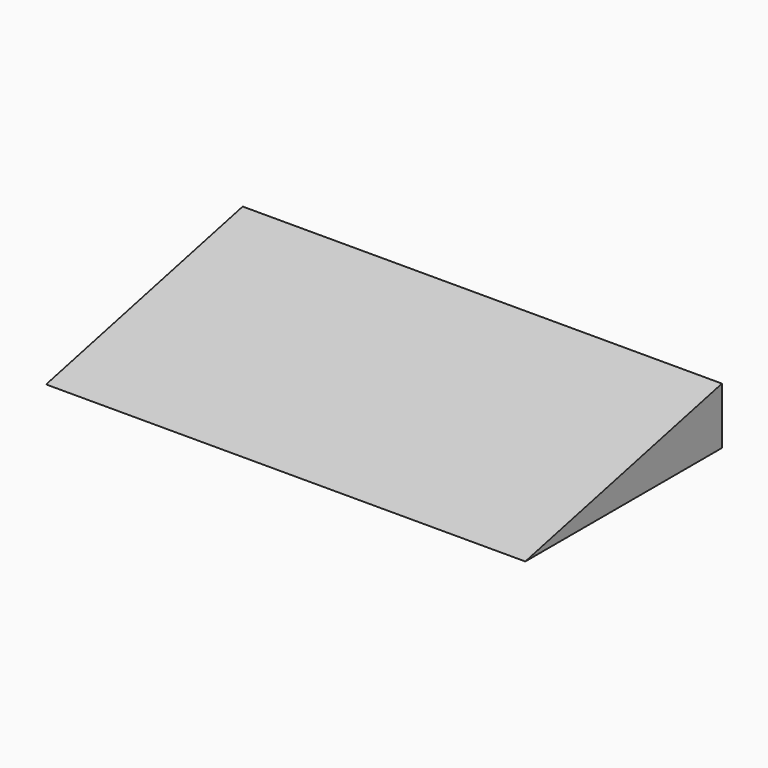
from build123d import *

# Parameters (mm, degrees)
F1_DEPTH = 643.89
F2_T     = -6.35


with BuildPart() as f1:
    # F0 (on Right) → F1 (new body)
    with BuildSketch(Plane.YZ):
        Polygon((-330.2, 0), (0, 0), (0, 76.2), align=None)
    extrude(amount=F1_DEPTH)

    # F2
    f2_openings = [f1.faces().sort_by_distance(p)[0] for p in [
        (321.945, -165.1, 0),
    ]]
    offset(amount=F2_T, openings=f2_openings)


solid = f1.part
